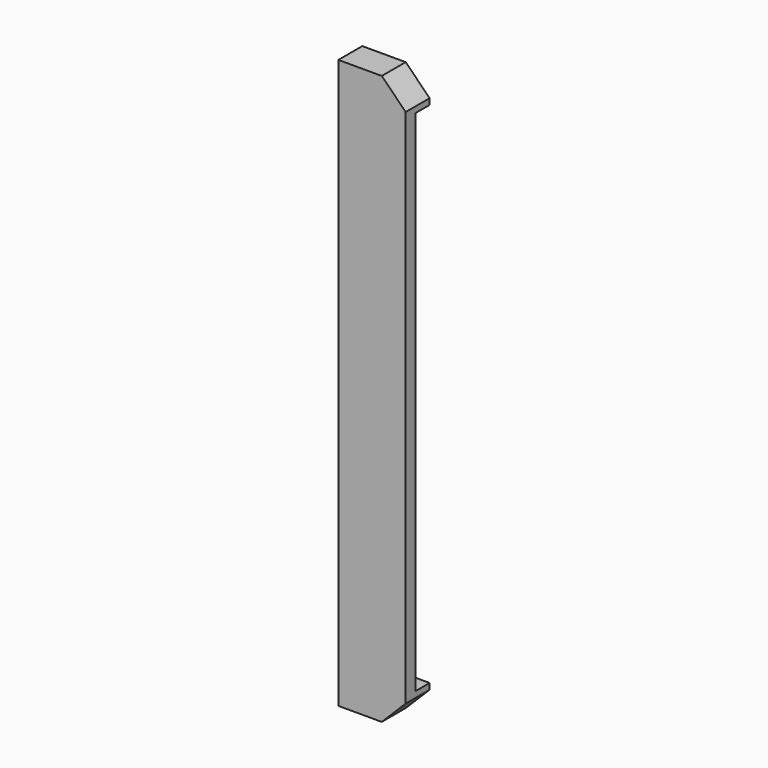
from build123d import *

# Parameters (mm, degrees)
SKETCH040_W      = 7
SKETCH040_H      = 34
EXTRUDE049_DEPTH = 2
EXTRUDE048_DEPTH = 2


with BuildPart() as extrude049:
    # Sketch040 → Extrude049 (new body)
    with BuildSketch(Plane.XZ.offset(4.5)):
        with Locations((-37.5, 12)):
            Rectangle(SKETCH040_W, SKETCH040_H)
    extrude(amount=-EXTRUDE049_DEPTH)


with BuildPart() as bulge_overlap:
    # Sketch039 → Extrude048 (new body)
    with BuildSketch(Plane.XZ.offset(5.3)):
        Polygon((-37, 31), (-35.4, 29.4), (-35.4, -5.4), (-37, -7), (-39.9, -7), (-39.9, 31), align=None)
    extrude(amount=-EXTRUDE048_DEPTH)

    # Cut027: cut Extrude049
    add(extrude049.part, mode=Mode.SUBTRACT)


with BuildPart() as bulge_overlap_1:
    # Cut027 placement: moved
    add(bulge_overlap.part.moved(Location((40, 0, 0))))


solid = bulge_overlap_1.part
